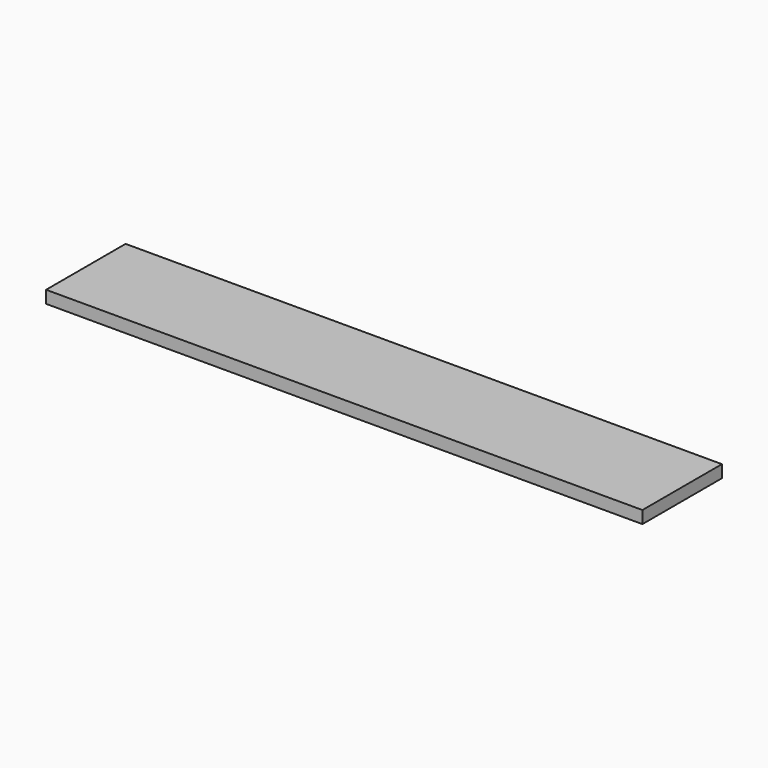
from build123d import *

# Parameters (mm, degrees)
F0_W     = 152.4
F0_H     = 25.4
F0_R     = 3.175
F1_DEPTH = 3.175


with BuildPart() as f1:
    # F0 (on Top) → F1 (new body)
    with BuildSketch(Plane.XY):
        with Locations((76.2, 12.7)):
            Rectangle(F0_W, F0_H)
        with Locations((12.7, 12.7)):
            Circle(F0_R, mode=Mode.SUBTRACT)
        with Locations((139.7, 12.7)):
            Circle(F0_R, mode=Mode.SUBTRACT)
        with Locations((12.7, 12.7)):
            Circle(F0_R)
        with Locations((139.7, 12.7)):
            Circle(F0_R)
    extrude(amount=F1_DEPTH)


solid = f1.part
